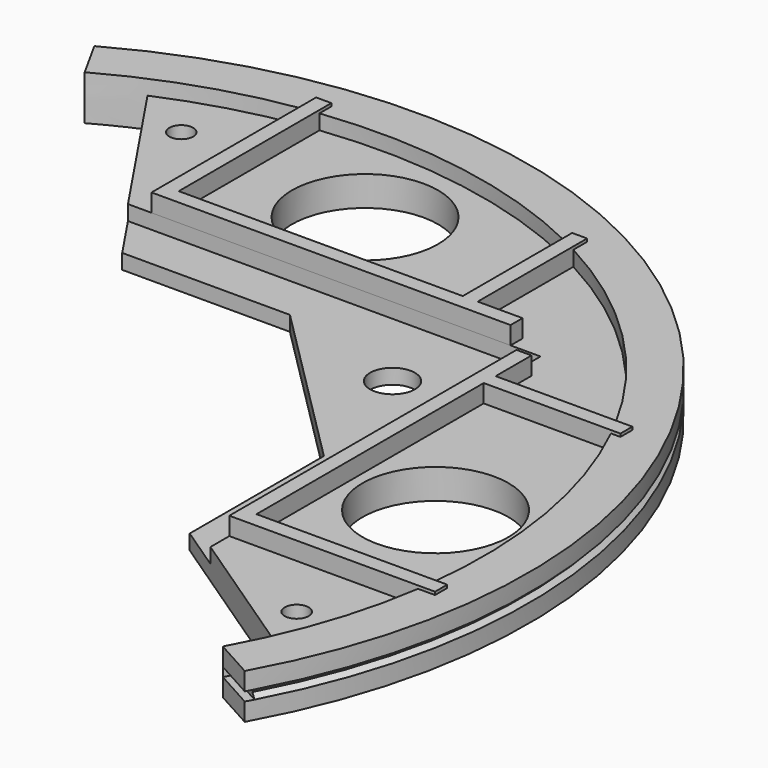
from build123d import *

# Parameters (mm, degrees)
SKETCH004_W                    = 42
SKETCH004_H                    = 42
PAD001_DEPTH                   = 1
SKETCH003_R                    = 4.8856059565
SKETCH003_R_2                  = 0.8
PAD_DEPTH                      = 2
PAD002_DEPTH                   = 1.2
SKETCH008_W                    = 3
SKETCH008_H                    = 0.6
POCKET_DEPTH                   = 0.56
PART_MIRRORING_PLACEMENT_ANGLE = 90.0000000001


with BuildPart() as sweep_body:
    # Sweep: sweep along a path in Sketch002
    with BuildLine(Plane.XY) as sweep_path:
        ThreePointArc((30.6116897499, -16.9683367086), (34.659382406, 4.8710585336), (24.7487373415, 24.7487373415))
    # Sketch → Sweep (sweep)
    with BuildSketch(Plane(origin=(0, 0, -2), x_dir=(1, 0, 0), z_dir=(0, -1, 0))):
        Polygon((34, 3), (37, 3), (37, 1.8), (36.7, 1.5), (37, 1.2), (37, 0), (34, 0), align=None)
    sweep(path=sweep_path.line)


with BuildPart() as pad001:
    # Sketch004 → Pad001 (new body)
    with BuildSketch(Plane.XY):
        Rectangle(SKETCH004_W, SKETCH004_H)
    extrude(amount=-PAD001_DEPTH)


with BuildPart() as pocket:
    # Sketch003 → Pad (new body)
    with BuildSketch(Plane.XY):
        with BuildLine():
            ThreePointArc((32.0633897526, -14.0334969831), (34.3936021818, 6.4869198359), (24.7487373415, 24.7487373415))
            Line((24.7487373415, 24.7487373415), (16.5606601718, 16.5606601718))
            ThreePointArc((14.4393398282, 14.4393398282), (16.5606601718, 14.4393398282), (16.5606601718, 16.5606601718))
            Line((14.4393398282, 14.4393398282), (12.3180194847, 12.3180194847))
            Line((18, 6.6360389693), (12.3180194847, 12.3180194847))
            Line((18, -4.584534), (18, 6.6360389693))
            Line((32.0633897526, -14.0334969831), (18, -4.584534))
        make_face()
        with Locations((27.575581, 4)):
            Circle(SKETCH003_R, mode=Mode.SUBTRACT)
        with Locations((29.091162, -9.5051)):
            Circle(SKETCH003_R_2, mode=Mode.SUBTRACT)
    extrude(amount=-PAD_DEPTH)

    # Cut: cut Pad001
    add(pad001.part, mode=Mode.SUBTRACT)

    # Fusion: union Sweep body
    add(sweep_body.part)

    # Sketch007 → Pad002 (new body)
    with BuildSketch(Plane.XY):
        Polygon((20.99856, 18.998371), (22, 18.998371), (22, 16), (31.146767, 16), (31.146767, 14.999727), (22, 14.999727), (22, -4), (34.761593, -4), (34.761593, -5.021452), (20.99856, -5.021452), align=None)
    extrude(amount=PAD002_DEPTH)

    # Sketch008 → Pocket (cut)
    with BuildSketch(Plane(origin=(0, 0, 0), x_dir=(0.8746197071, -0.4848096202, 0), z_dir=(-0.4848096202, -0.8746197071, 0))):
        with Locations((35.5, -0.5)):
            Rectangle(SKETCH008_W, SKETCH008_H)
    extrude(amount=-POCKET_DEPTH, mode=Mode.SUBTRACT)


with BuildPart() as fusion001:
    # Part__Mirroring: instance of Pocket
    add(pocket.part.mirror(Plane(origin=(0, 0, 0), x_dir=(1, 0, 0), z_dir=(0, 1, 0))))


with BuildPart() as fusion001_1:
    # Part__Mirroring placement: moved
    add(fusion001.part.rotate(Axis((0, 0, 0), (0, 0, 1)), PART_MIRRORING_PLACEMENT_ANGLE))

    # Fusion001: union Pocket
    add(pocket.part)


solid = fusion001_1.part
